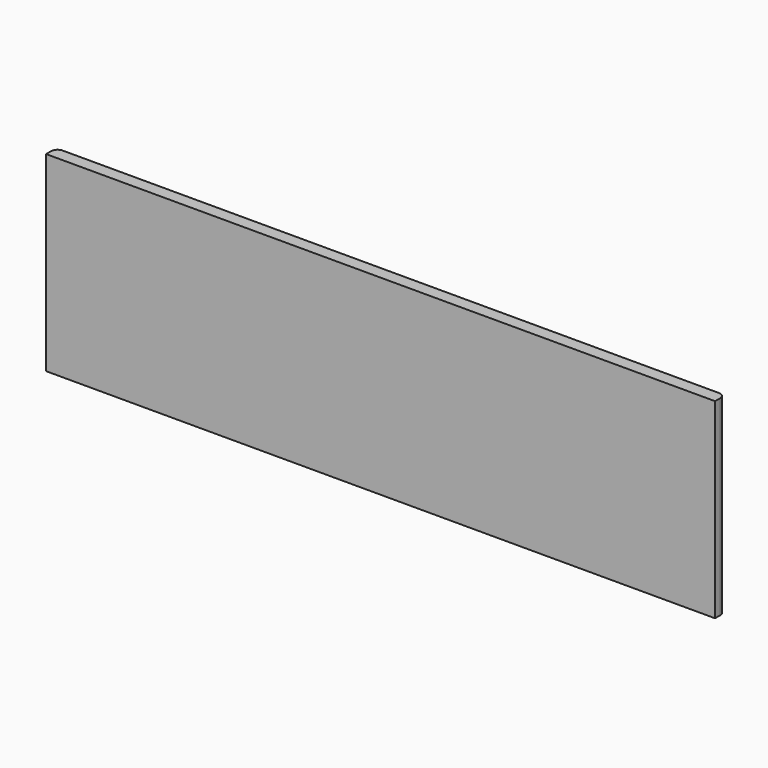
from build123d import *

# Parameters (mm, degrees)
SKETCH003_W  = 105
SKETCH003_H  = 30
PAD002_DEPTH = 2
FILLET009_R  = 1
FILLET017_R  = 1


with BuildPart() as part:
    # Sketch003 → Pad002 (new body)
    with BuildSketch(Plane.XZ):
        with Locations((0, 15)):
            Rectangle(SKETCH003_W, SKETCH003_H)
    extrude(amount=PAD002_DEPTH)

    # Fillet009
    fillet009_edges = [part.edges().sort_by_distance(p)[0] for p in [
        (52.5, 0, 15),
    ]]
    fillet(fillet009_edges, radius=FILLET009_R)

    # Fillet017
    fillet017_edges = [part.edges().sort_by_distance(p)[0] for p in [
        (-52.5, 0, 15),
    ]]
    fillet(fillet017_edges, radius=FILLET017_R)


with BuildPart() as part_1:
    # Body002 placement: moved
    add(part.part.moved(Location((0, 32.5, 0))))


solid = part_1.part
